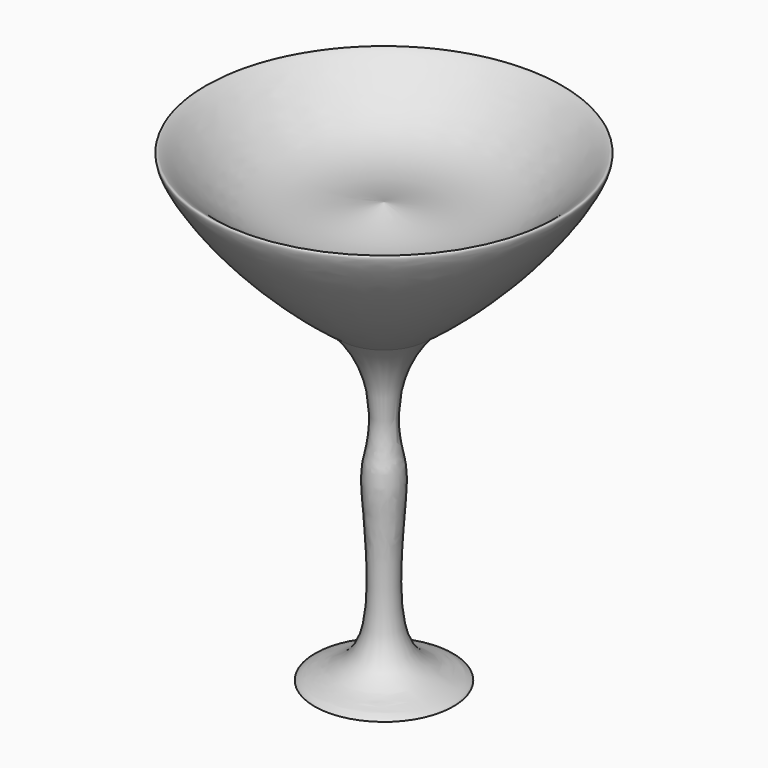
from build123d import *


with BuildPart() as f1:
    # F0 (on Front) → F1 (revolve)
    with BuildSketch(Plane.XZ):
        with BuildLine():
            Line((0, -69.7868615389), (0, 24.1335444088))
            add(Edge.make_bspline(
                [(0, 24.1335444088), (-9.3339017186, 21.4023846508), (-25.54761358, 18.9290707977), (-48.0398844724, 45.2842662245), (-31.7214197158, 15.8804797964), (-9.8958915495, 0)],
                knots=[0, 0, 0, 0, 0.3216735683, 0.5780110825, 1, 1, 1, 1], degree=3))
            add(Edge.make_bspline(
                [(-9.8958915495, 0), (-1.6935724081, -8.6365333273), (-2.5158253465, -24.2217176374), (-5.1947356134, -29.8392357171), (0.2319233397, -66.0549275867), (-13.195064941, -68.7256524346), (-17.9504192285, -71.3928096493), (-7.7851538068, -70.4826910221), (0, -69.7868615389)],
                knots=[0, 0, 0, 0, 0.2248780345, 0.3483096277, 0.6061758993, 0.7549470254, 0.8205754098, 1, 1, 1, 1], degree=3))
        make_face()
    revolve(axis=Axis((0, 0, 5.1652416587), (0, 0, 1)))


solid = f1.part
